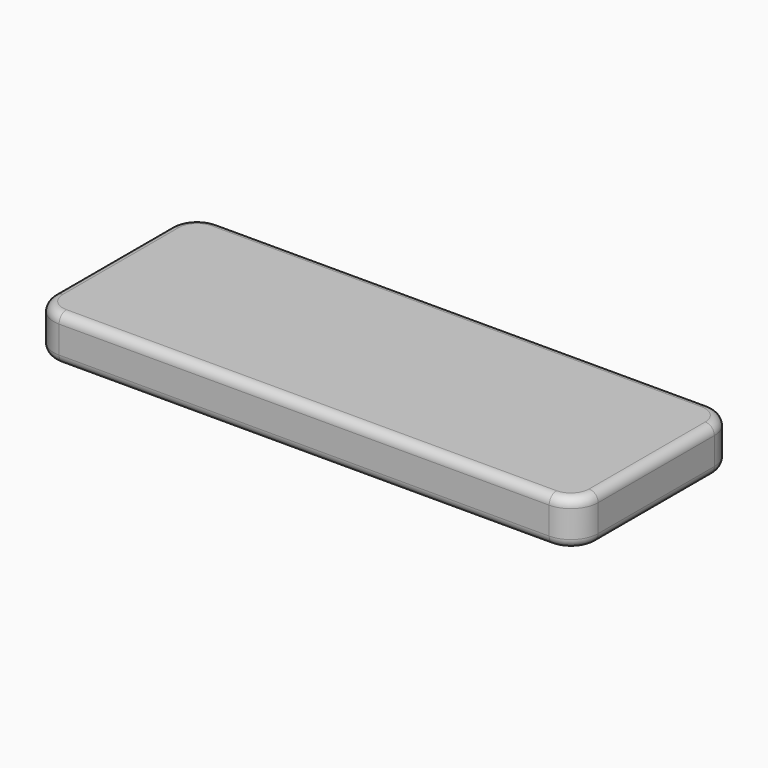
from build123d import *

# Parameters (mm, degrees)
F0_W     = 300
F0_H     = 110
F1_DEPTH = 25
F2_R     = 5
F3_DEPTH = 15
F4_R     = 15
F5_R     = 5


with BuildPart() as f1:
    # F0 (on Top) → F1 (new body)
    with BuildSketch(Plane.XY):
        Rectangle(F0_W, F0_H)
    extrude(amount=F1_DEPTH)

    # F2 (on face) → F3 (cut)
    with BuildSketch(Plane(origin=(0, 0, 0), x_dir=(1, 0, 0), z_dir=(0, 0, -1))):
        with Locations((-112.5, 35)):
            Circle(F2_R)
        with Locations((112.5, 35)):
            Circle(F2_R)
        with Locations((112.5, -35)):
            Circle(F2_R)
        with Locations((-112.5, -35)):
            Circle(F2_R)
    extrude(amount=-F3_DEPTH, mode=Mode.SUBTRACT)

    # F4
    f4_edges = [f1.edges().sort_by_distance(p)[0] for p in [
        (-150, 55, 12.5),
        (-150, -55, 12.5),
        (150, -55, 12.5),
        (150, 55, 12.5),
    ]]
    fillet(f4_edges, radius=F4_R)

    # F5
    f5_edges = [f1.edges().sort_by_distance(p)[0] for p in [
        (-150, 0, 25),
        (-150, 0, 0),
    ]]
    fillet(f5_edges, radius=F5_R)


solid = f1.part
